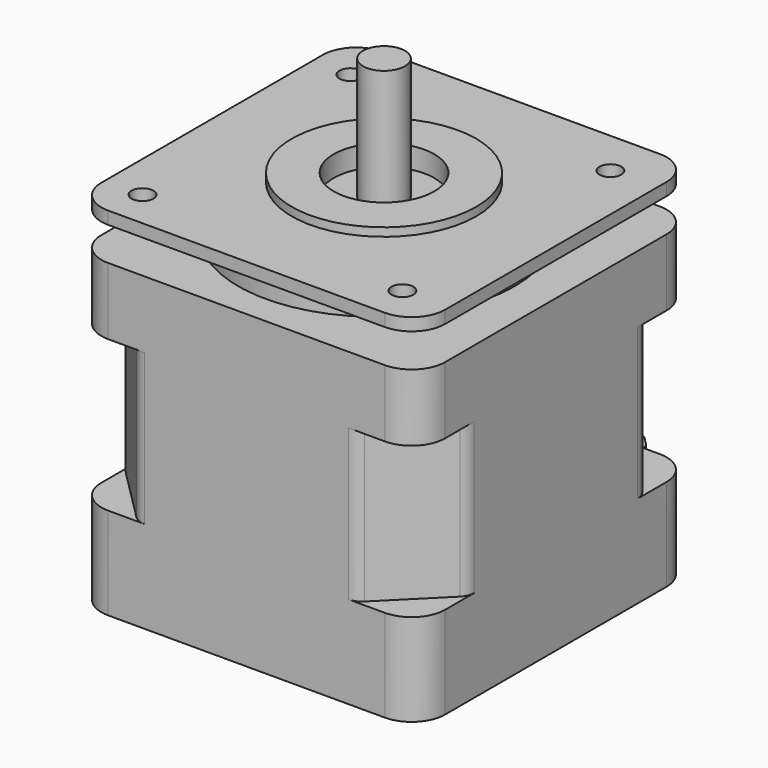
from build123d import *

# Parameters (mm, degrees)
SKETCH005_R     = 11
SKETCH005_R_2   = 6
PAD005_DEPTH    = 1
SKETCH006_R     = 2.5
PAD006_DEPTH    = 14.5
SKETCH001_W     = 41
SKETCH001_H     = 41
PAD001_DEPTH    = 18
CHAMFER_SIZE    = 7.5
FILLET_R        = 2
PAD_DEPTH       = 11
FILLET001_R     = 4
CHAMFER001_SIZE = 1.5
FILLET002_R     = 1
FILLET003_R     = 1
SKETCH002_W     = 41
SKETCH002_H     = 41
PAD002_DEPTH    = 8
FILLET004_R     = 4
SKETCH004_W     = 41
SKETCH004_H     = 41
SKETCH004_R     = 1.3
SKETCH004_R_2   = 6
PAD004_DEPTH    = 1.5
FILLET005_R     = 4
SKETCH003_R     = 16.5
PAD003_DEPTH    = 4


with BuildPart() as pad005:
    # Sketch005 → Pad005 (new body)
    with BuildSketch(Plane.XY.offset(42.5)):
        with Locations((20.5, 20.5)):
            Circle(SKETCH005_R)
        with Locations((20.5, 20.5)):
            Circle(SKETCH005_R_2, mode=Mode.SUBTRACT)
    extrude(amount=PAD005_DEPTH)


with BuildPart() as pad006:
    # Sketch006 → Pad006 (new body)
    with BuildSketch(Plane.XY.offset(41)):
        with Locations((20.5, 20.5)):
            Circle(SKETCH006_R)
    extrude(amount=PAD006_DEPTH)


with BuildPart() as fillet_body:
    # Sketch001 → Pad001 (new body)
    with BuildSketch(Plane.XY.offset(11)):
        with Locations((20.5, 20.5)):
            Rectangle(SKETCH001_W, SKETCH001_H)
    extrude(amount=PAD001_DEPTH)

    # Chamfer
    chamfer_edges = [fillet_body.edges().sort_by_distance(p)[0] for p in [
        (0, 41, 20),
        (41, 41, 20),
        (41, 0, 20),
        (0, 0, 20),
    ]]
    chamfer(chamfer_edges, length=CHAMFER_SIZE)

    # Fillet
    fillet_edges = [fillet_body.edges().sort_by_distance(p)[0] for p in [
        (33.5, 0, 20),
        (41, 7.5, 20),
        (7.5, 0, 20),
        (0, 7.5, 20),
        (0, 33.5, 20),
        (7.5, 41, 20),
        (33.5, 41, 20),
        (41, 33.5, 20),
    ]]
    fillet(fillet_edges, radius=FILLET_R)


with BuildPart() as fillet003:
    # Sketch → Pad (new body)
    with BuildSketch(Plane.XY):
        Polygon((0, 41), (0, 0), (41, 0), (41, 41), (35, 41), (35, 43), (6, 43), (6, 41), align=None)
    extrude(amount=PAD_DEPTH)

    # Fillet001
    fillet001_edges = [fillet003.edges().sort_by_distance(p)[0] for p in [
        (0, 0, 5.5),
        (41, 0, 5.5),
        (0, 41, 5.5),
        (41, 41, 5.5),
    ]]
    fillet(fillet001_edges, radius=FILLET001_R)

    # Chamfer001
    chamfer001_edges = [fillet003.edges().sort_by_distance(p)[0] for p in [
        (6, 43, 5.5),
        (35, 43, 5.5),
    ]]
    chamfer(chamfer001_edges, length=CHAMFER001_SIZE)

    # Fillet002
    fillet002_edges = [fillet003.edges().sort_by_distance(p)[0] for p in [
        (33.5, 43, 5.5),
        (7.5, 43, 5.5),
    ]]
    fillet(fillet002_edges, radius=FILLET002_R)

    # Fillet003
    fillet003_edges = [fillet003.edges().sort_by_distance(p)[0] for p in [
        (35, 41.5, 5.5),
        (6, 41.5, 5.5),
    ]]
    fillet(fillet003_edges, radius=FILLET003_R)


with BuildPart() as fillet004:
    # Sketch002 → Pad002 (new body)
    with BuildSketch(Plane.XY.offset(29)):
        with Locations((20.5, 20.5)):
            Rectangle(SKETCH002_W, SKETCH002_H)
    extrude(amount=PAD002_DEPTH)

    # Fillet004
    fillet004_edges = [fillet004.edges().sort_by_distance(p)[0] for p in [
        (0, 41, 33),
        (41, 41, 33),
        (0, 0, 33),
        (41, 0, 33),
    ]]
    fillet(fillet004_edges, radius=FILLET004_R)


with BuildPart() as fillet005:
    # Sketch004 → Pad004 (new body)
    with BuildSketch(Plane.XY.offset(41)):
        with Locations((20.5, 20.5)):
            Rectangle(SKETCH004_W, SKETCH004_H)
        with Locations((4.5, 35.5)):
            Circle(SKETCH004_R, mode=Mode.SUBTRACT)
        with Locations((35.5, 35.5)):
            Circle(SKETCH004_R, mode=Mode.SUBTRACT)
        with Locations((4.5, 4.5)):
            Circle(SKETCH004_R, mode=Mode.SUBTRACT)
        with Locations((35.5, 4.5)):
            Circle(SKETCH004_R, mode=Mode.SUBTRACT)
        with Locations((20.5, 20.5)):
            Circle(SKETCH004_R_2, mode=Mode.SUBTRACT)
    extrude(amount=PAD004_DEPTH)

    # Fillet005
    fillet005_edges = [fillet005.edges().sort_by_distance(p)[0] for p in [
        (41, 0, 41.75),
        (41, 41, 41.75),
        (0, 0, 41.75),
        (0, 41, 41.75),
    ]]
    fillet(fillet005_edges, radius=FILLET005_R)


with BuildPart() as fusion:
    # Sketch003 → Pad003 (new body)
    with BuildSketch(Plane.XY.offset(37)):
        with Locations((20, 20)):
            Circle(SKETCH003_R)
    extrude(amount=PAD003_DEPTH)

    # Fusion: union Pad005, Pad006, Fillet body, Fillet003, Fillet004, Fillet005
    add(pad005.part)
    add(pad006.part)
    add(fillet_body.part)
    add(fillet003.part)
    add(fillet004.part)
    add(fillet005.part)


solid = fusion.part
